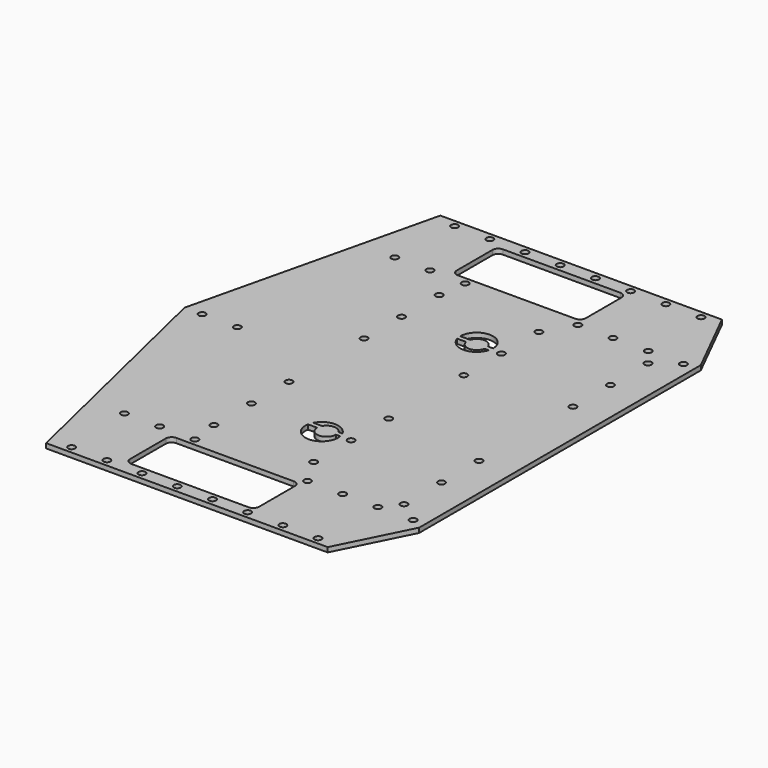
from build123d import *

# Parameters (mm, degrees)
F0_W      = 320
F0_H      = 420
F1_DEPTH  = 4
F3_DEPTH  = 4
F4_R      = 3
F5_DEPTH  = 25
F6_R      = 3
F7_DEPTH  = 25
F8_R      = 3
F9_DEPTH  = 25
F11_DEPTH = 25


with BuildPart() as f1:
    # F0 (on Top) → F1 (new body)
    with BuildSketch(Plane.XY):
        with Locations((160, 210)):
            Rectangle(F0_W, F0_H)
    extrude(amount=F1_DEPTH)

    # F2 (on face) → F3 (cut, through all)
    with BuildSketch(Plane.XY.offset(4)):
        Polygon((320, 420), (290, 420), (320, 360), align=None)
        Polygon((320, 60), (290, 0), (320, 0), align=None)
        with BuildLine():
            Line((113, 360), (213, 360))
            ThreePointArc((213, 360), (216.535534, 361.464466), (218, 365))
            Line((218, 365), (218, 403))
            ThreePointArc((218, 403), (216.535534, 406.535534), (213, 408))
            Line((213, 408), (113, 408))
            ThreePointArc((113, 408), (109.464466, 406.535534), (108, 403))
            Line((108, 403), (108, 365))
            ThreePointArc((108, 365), (109.464466, 361.464466), (113, 360))
        make_face()
        with BuildLine():
            Line((113, 12), (213, 12))
            ThreePointArc((213, 12), (216.535534, 13.464466), (218, 17))
            Line((218, 17), (218, 55))
            ThreePointArc((218, 55), (216.535534, 58.535534), (213, 60))
            Line((213, 60), (113, 60))
            ThreePointArc((113, 60), (109.464466, 58.535534), (108, 55))
            Line((108, 55), (108, 17))
            ThreePointArc((108, 17), (109.464466, 13.464466), (113, 12))
        make_face()
        Polygon((0, 420), (0, 210), (50, 420), align=None)
        Polygon((50, 0), (0, 210), (0, 0), align=None)
    extrude(amount=-F3_DEPTH, mode=Mode.SUBTRACT)

    # F4 (on face) → F5 (cut)
    with BuildSketch(Plane.XY.offset(4)):
        with Locations((67, 6)):
            Circle(F4_R)
        with Locations((97, 6)):
            Circle(F4_R)
        with Locations((127, 6)):
            Circle(F4_R)
        with Locations((157, 6)):
            Circle(F4_R)
        with Locations((187, 6)):
            Circle(F4_R)
        with Locations((217, 6)):
            Circle(F4_R)
        with Locations((247, 6)):
            Circle(F4_R)
        with Locations((277, 6)):
            Circle(F4_R)
        with Locations((64, 66)):
            Circle(F4_R)
        with Locations((94, 66)):
            Circle(F4_R)
        with Locations((124, 66)):
            Circle(F4_R)
        with Locations((220, 66)):
            Circle(F4_R)
        with Locations((250, 66)):
            Circle(F4_R)
        with Locations((280, 66)):
            Circle(F4_R)
        with Locations((310, 66)):
            Circle(F4_R)
        with Locations((67, 414)):
            Circle(F4_R)
        with Locations((64, 354)):
            Circle(F4_R)
        with Locations((97, 414)):
            Circle(F4_R)
        with Locations((310, 354)):
            Circle(F4_R)
        with Locations((277, 414)):
            Circle(F4_R)
        with Locations((94, 354)):
            Circle(F4_R)
        with Locations((220, 354)):
            Circle(F4_R)
        with Locations((280, 354)):
            Circle(F4_R)
        with Locations((124, 354)):
            Circle(F4_R)
        with Locations((127, 414)):
            Circle(F4_R)
        with Locations((250, 354)):
            Circle(F4_R)
        with Locations((157, 414)):
            Circle(F4_R)
        with Locations((187, 414)):
            Circle(F4_R)
        with Locations((217, 414)):
            Circle(F4_R)
        with Locations((247, 414)):
            Circle(F4_R)
    extrude(amount=-F5_DEPTH, mode=Mode.SUBTRACT)

    # F6 (on face) → F7 (cut)
    with BuildSketch(Plane.XY.offset(4)):
        with Locations((121, 90)):
            Circle(F6_R)
        with Locations((121, 130)):
            Circle(F6_R)
        with Locations((121, 170)):
            Circle(F6_R)
        with Locations((206, 90)):
            Circle(F6_R)
        with Locations((206, 130)):
            Circle(F6_R)
        with Locations((206, 170)):
            Circle(F6_R)
        with Locations((291.000009, 80.000006)):
            Circle(F6_R)
        with Locations((291.000009, 120.000006)):
            Circle(F6_R)
        with Locations((291.000009, 160.000006)):
            Circle(F6_R)
        with Locations((121, 330)):
            Circle(F6_R)
        with Locations((121, 290)):
            Circle(F6_R)
        with Locations((206, 330)):
            Circle(F6_R)
        with Locations((206, 250)):
            Circle(F6_R)
        with Locations((291.000009, 339.99999)):
            Circle(F6_R)
        with Locations((121, 250)):
            Circle(F6_R)
        with Locations((206, 290)):
            Circle(F6_R)
        with Locations((291.000009, 299.99999)):
            Circle(F6_R)
        with Locations((291.000009, 259.99999)):
            Circle(F6_R)
    extrude(amount=-F7_DEPTH, mode=Mode.SUBTRACT)

    # F8 (on face) → F9 (cut)
    with BuildSketch(Plane.XY.offset(4)):
        with Locations((15, 210)):
            Circle(F8_R)
        with Locations((45, 210)):
            Circle(F8_R)
    extrude(amount=-F9_DEPTH, mode=Mode.SUBTRACT)

    # F10 (on face) → F11 (cut)
    with BuildSketch(Plane.XY.offset(4)):
        with BuildLine():
            ThreePointArc((192.858117, 288.5), (185, 282), (177.141883, 288.5))
            Line((177.141883, 288.5), (169.583592, 288.5))
            ThreePointArc((169.583592, 288.5), (183, 278.5), (196.416408, 288.5))
            Line((196.416408, 288.5), (192.858117, 288.5))
        make_face()
        with BuildLine():
            ThreePointArc((193, 130), (185, 122), (177, 130))
            Line((177, 130), (169.225023, 130))
            ThreePointArc((169.225023, 130), (183, 113.5), (196.774977, 130))
            Line((196.774977, 130), (193, 130))
        make_face()
        with BuildLine():
            ThreePointArc((195.399597, 134), (183, 141.5), (170.600403, 134))
            Line((170.600403, 134), (178.071797, 134))
            ThreePointArc((178.071797, 134), (185, 138), (191.928203, 134))
            Line((191.928203, 134), (195.399597, 134))
        make_face()
        with BuildLine():
            ThreePointArc((197, 292.5), (183, 306.5), (169, 292.5))
            Line((169, 292.5), (177.400658, 292.5))
            ThreePointArc((177.400658, 292.5), (185, 298), (192.599342, 292.5))
            Line((192.599342, 292.5), (197, 292.5))
        make_face()
    extrude(amount=-F11_DEPTH, mode=Mode.SUBTRACT)


solid = f1.part
